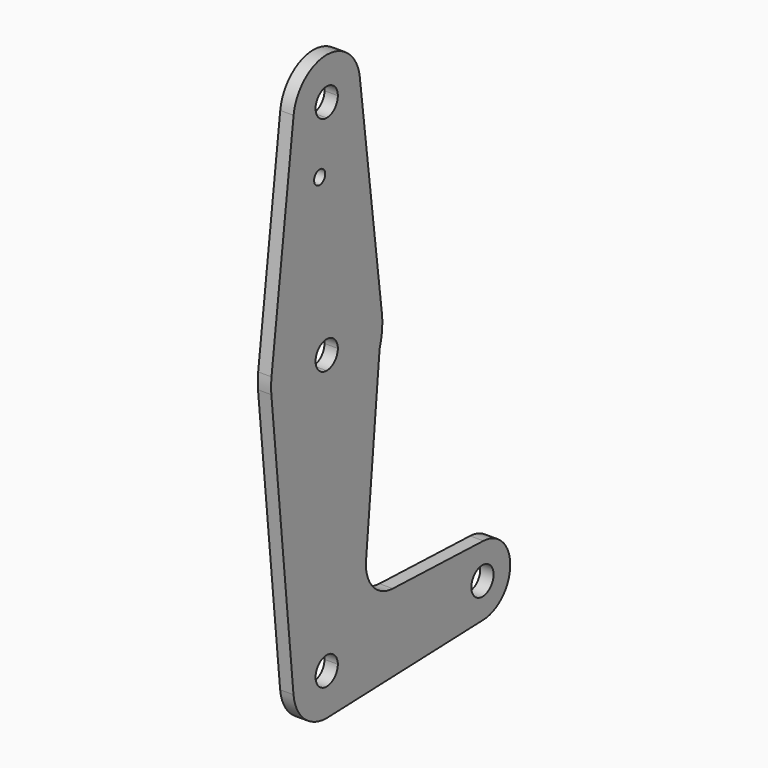
from build123d import *

# Parameters (mm, degrees)
F0_R     = 1.5875
F1_DEPTH = 3.048


with BuildPart() as f1:
    # F0 (on Right) → F1 (new body)
    with BuildSketch(Plane.YZ):
        with BuildLine():
            ThreePointArc((-15.7504882737, 65.484375), (-15.8737438155, 63.6997054867), (-15.7954255641, 61.9125))
            ThreePointArc((-15.7954255641, 61.9125), (-10.6492737428, 51.7267849017), (0, 47.625))
            Line((0, 47.625), (0, 60.325))
            ThreePointArc((0, 60.325), (-3.175, 63.5), (0, 66.675))
            Line((0, 66.675), (0, 79.375))
            ThreePointArc((0, 79.375), (-10.5003255158, 75.40625), (-15.7504882737, 65.484375))
        make_face()
        with BuildLine():
            ThreePointArc((0, 9.525), (-7.063929059, 6.3895642457), (-9.4772553384, -0.9525))
            ThreePointArc((-9.4772553384, -0.9525), (-6.3895642457, -7.063929059), (0, -9.525))
            Line((0, -9.525), (0.6773435479, -9.500885786))
            ThreePointArc((0.6773435479, -9.500885786), (6.9705567315, -6.4912990883), (9.525, 0))
            Line((9.525, 0), (3.175, 0))
            ThreePointArc((3.175, 0), (-2.2450640303, -2.2450640303), (0, 3.175))
            Line((0, 3.175), (0, 9.525))
        make_face()
        with BuildLine():
            Line((-15.7954255641, 61.9125), (-9.4772553384, -0.9525))
            ThreePointArc((-9.4772553384, -0.9525), (-7.063929059, 6.3895642457), (0, 9.525))
            Line((0, 9.525), (0, 47.625))
            ThreePointArc((0, 47.625), (-10.6492737428, 51.7267849017), (-15.7954255641, 61.9125))
        make_face()
        with BuildLine():
            Line((0.6773435479, -9.500885786), (0, -9.525))
            ThreePointArc((0, -9.525), (0.3388863295, -9.5189695375), (0.6773435479, -9.500885786))
        make_face()
        with BuildLine():
            Line((0, 47.625), (0, 9.525))
            ThreePointArc((0, 9.525), (6.7351920908, 6.7351920908), (9.525, 0))
            Line((9.525, 0), (36.5125, 0))
            ThreePointArc((36.5125, 0), (38.9380895153, 5.7116327839), (44.7324052746, 7.9324746146))
            Line((44.7324052746, 7.9324746146), (18.856043224, 8.8537030438))
            ThreePointArc((18.856043224, 8.8537030438), (13.1647224311, 11.5534069815), (11.2238967505, 17.5461300184))
            Line((11.2238967505, 17.5461300184), (15.0998028897, 58.5998390136))
            ThreePointArc((15.0998028897, 58.5998390136), (9.3334229879, 50.6585499133), (0, 47.625))
        make_face()
        with BuildLine():
            ThreePointArc((-15.7504882737, 65.484375), (-15.8737438155, 63.6997054867), (-15.7954255641, 61.9125))
            ThreePointArc((-15.7954255641, 61.9125), (-10.6492737428, 51.7267849017), (0, 47.625))
            Line((0, 47.625), (0, 60.325))
            ThreePointArc((0, 60.325), (-3.175, 63.5), (0, 66.675))
            Line((0, 66.675), (0, 79.375))
            ThreePointArc((0, 79.375), (-10.5003255158, 75.40625), (-15.7504882737, 65.484375))
        make_face()
        with BuildLine():
            ThreePointArc((9.525, 0), (6.9705567315, -6.4912990883), (0.6773435479, -9.500885786))
            Line((0.6773435479, -9.500885786), (44.7324052746, -7.9324746146))
            ThreePointArc((44.7324052746, -7.9324746146), (38.9380895153, -5.7116327839), (36.5125, 0))
            Line((36.5125, 0), (9.525, 0))
        make_face()
        with BuildLine():
            Line((0, 60.325), (0, 47.625))
            ThreePointArc((0, 47.625), (9.3334229879, 50.6585499133), (15.0998028897, 58.5998390136))
            ThreePointArc((15.0998028897, 58.5998390136), (15.680003123, 61.0194502498), (15.875, 63.5))
            ThreePointArc((15.875, 63.5), (15.8438414904, 64.4941387366), (15.7504882737, 65.484375))
            ThreePointArc((15.7504882737, 65.484375), (10.5003255158, 75.40625), (0, 79.375))
            Line((0, 79.375), (0, 66.675))
            ThreePointArc((0, 66.675), (2.2450640303, 65.7450640303), (3.175, 63.5))
            ThreePointArc((3.175, 63.5), (2.2450640303, 61.2549359697), (0, 60.325))
        make_face()
        with BuildLine():
            Line((-9.4502929642, 115.490625), (-15.7504882737, 65.484375))
            ThreePointArc((-15.7504882737, 65.484375), (-10.5003255158, 75.40625), (0, 79.375))
            Line((0, 79.375), (0, 104.775))
            ThreePointArc((0, 104.775), (-7.14375, 107.9998046905), (-9.4502929642, 115.490625))
        make_face()
        with Locations((-2.0124551374, 100.0252)):
            Circle(F0_R, mode=Mode.SUBTRACT)
        with BuildLine():
            ThreePointArc((36.5125, 0), (38.9380895153, -5.7116327839), (44.7324052746, -7.9324746146))
            ThreePointArc((44.7324052746, -7.9324746146), (50.1616327839, -5.5119104847), (52.3875, 0))
            ThreePointArc((52.3875, 0), (50.1616327839, 5.5119104847), (44.7324052746, 7.9324746146))
            ThreePointArc((44.7324052746, 7.9324746146), (38.9380895153, 5.7116327839), (36.5125, 0))
        make_face()
        with BuildLine():
            ThreePointArc((47.625, 0), (44.45, -3.175), (41.275, 0))
            ThreePointArc((41.275, 0), (44.45, 3.175), (47.625, 0))
        make_face(mode=Mode.SUBTRACT)
        with BuildLine():
            Line((0, 104.775), (0, 79.375))
            ThreePointArc((0, 79.375), (10.5003255158, 75.40625), (15.7504882737, 65.484375))
            Line((15.7504882737, 65.484375), (9.4502929642, 115.490625))
            ThreePointArc((9.4502929642, 115.490625), (9.5063048942, 114.896483242), (9.525, 114.3))
            ThreePointArc((9.525, 114.3), (6.7351920908, 107.5648079092), (0, 104.775))
        make_face()
        with BuildLine():
            ThreePointArc((9.4502929642, 115.490625), (0, 123.825), (-9.4502929642, 115.490625))
            ThreePointArc((-9.4502929642, 115.490625), (-7.14375, 107.9998046905), (0, 104.775))
            ThreePointArc((0, 104.775), (6.7351920908, 107.5648079092), (9.525, 114.3))
            ThreePointArc((9.525, 114.3), (9.5063048942, 114.896483242), (9.4502929642, 115.490625))
        make_face()
        with BuildLine():
            ThreePointArc((3.175, 114.3), (2.2450640303, 112.0549359697), (0, 111.125))
            ThreePointArc((0, 111.125), (-2.2450640303, 116.5450640303), (3.175, 114.3))
        make_face(mode=Mode.SUBTRACT)
        with BuildLine():
            ThreePointArc((9.525, 0), (6.7351920908, 6.7351920908), (0, 9.525))
            Line((0, 9.525), (0, 3.175))
            ThreePointArc((0, 3.175), (2.2450640303, 2.2450640303), (3.175, 0))
            Line((3.175, 0), (9.525, 0))
        make_face()
    extrude(amount=F1_DEPTH)


solid = f1.part
